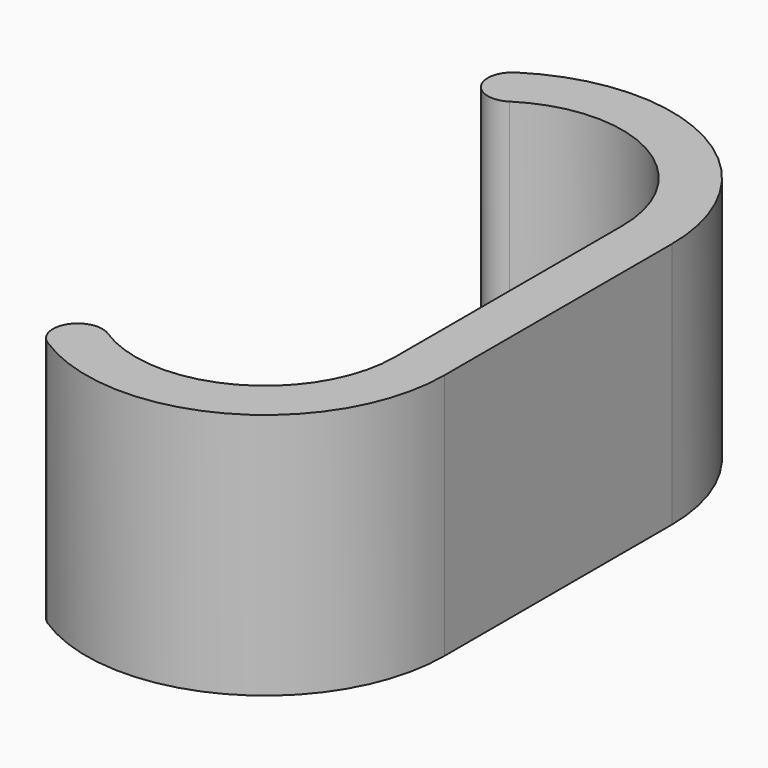
from build123d import *

# Parameters (mm, degrees)
F1_DEPTH = 20


with BuildPart() as f1:
    # F0 (on Top) → F1 (new body)
    with BuildSketch(Plane.XY):
        with BuildLine():
            ThreePointArc((-5.697157, 20.32), (5.021446, 20.721446), (10.5, 11.5))
            Line((10.5, 11.5), (10.5, -11.5))
            ThreePointArc((10.5, -11.5), (5.021446, -20.721446), (-5.697157, -20.32))
            ThreePointArc((-5.697157, -20.32), (-8.46233, -20.914827), (-7.867503, -23.68))
            ThreePointArc((-7.867503, -23.68), (6.934378, -24.234378), (14.5, -11.5))
            Line((14.5, -11.5), (14.5, 11.5))
            ThreePointArc((14.5, 11.5), (6.934378, 24.234378), (-7.867503, 23.68))
            ThreePointArc((-7.867503, 23.68), (-8.46233, 20.914827), (-5.697157, 20.32))
        make_face()
    extrude(amount=F1_DEPTH)


solid = f1.part
